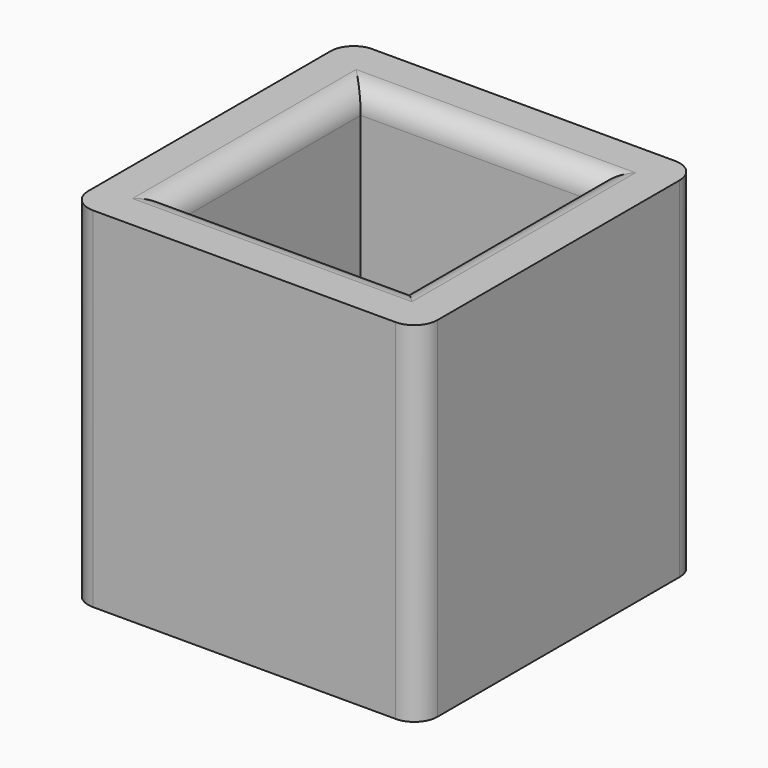
from build123d import *

# Parameters (mm, degrees)
F0_W     = 30
F0_H     = 30
F1_DEPTH = 30
F2_W     = 20
F2_H     = 20
F3_DEPTH = 15
F4_R     = 3
F5_DEPTH = 25
F6_R     = 7
F7_DEPTH = 5
F8_R     = 2


with BuildPart() as f1:
    # F0 (on Top) → F1 (new body)
    with BuildSketch(Plane.XY):
        with Locations((15, 15)):
            Rectangle(F0_W, F0_H)
    extrude(amount=F1_DEPTH)

    # F2 (on face) → F3 (cut)
    with BuildSketch(Plane.XY.offset(30)):
        with Locations((15, 15)):
            Rectangle(F2_W, F2_H)
    extrude(amount=-F3_DEPTH, mode=Mode.SUBTRACT)

    # F4 (on face) → F5 (cut)
    with BuildSketch(Plane(origin=(0, 0, 0), x_dir=(1, 0, 0), z_dir=(0, 0, -1))):
        with Locations((15, -15)):
            Circle(F4_R)
    extrude(amount=-F5_DEPTH, mode=Mode.SUBTRACT)

    # F6 (on face) → F7 (cut)
    with BuildSketch(Plane(origin=(0, 0, 0), x_dir=(1, 0, 0), z_dir=(0, 0, -1))):
        with Locations((15, -15)):
            Circle(F6_R)
    extrude(amount=-F7_DEPTH, mode=Mode.SUBTRACT)

    # F8
    f8_edges = [f1.edges().sort_by_distance(p)[0] for p in [
        (5, 15, 30),
        (15, 25, 30),
        (25, 15, 30),
        (15, 5, 30),
        (30, 0, 15),
        (30, 30, 15),
        (0, 0, 15),
        (0, 30, 15),
    ]]
    fillet(f8_edges, radius=F8_R)


solid = f1.part
